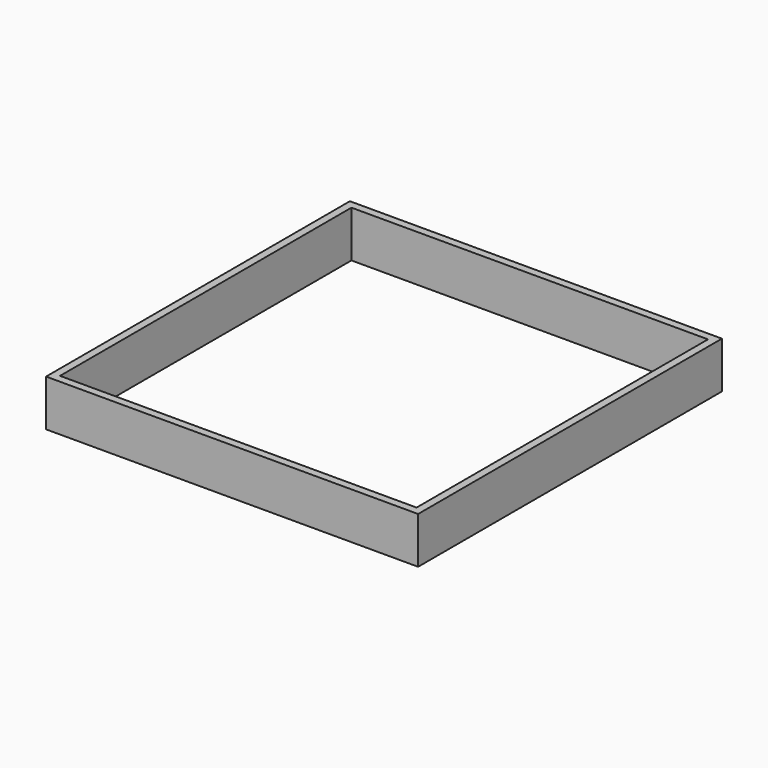
from build123d import *

# Parameters (mm, degrees)
F0_W     = 1168.9519882202
F0_H     = 1194.2882537842
F1_DEPTH = 152.4
F2_T     = 25.4


with BuildPart() as f1:
    # F0 (on Top) → F1 (new body)
    with BuildSketch(Plane.XY):
        Rectangle(F0_W, F0_H)
    extrude(amount=F1_DEPTH)

    # F2
    f2_openings = [f1.faces().sort_by_distance(p)[0] for p in [
        (0, 0, 0),
        (0, 0, 152.4),
    ]]
    offset(amount=F2_T, openings=f2_openings, kind=Kind.INTERSECTION)


solid = f1.part
